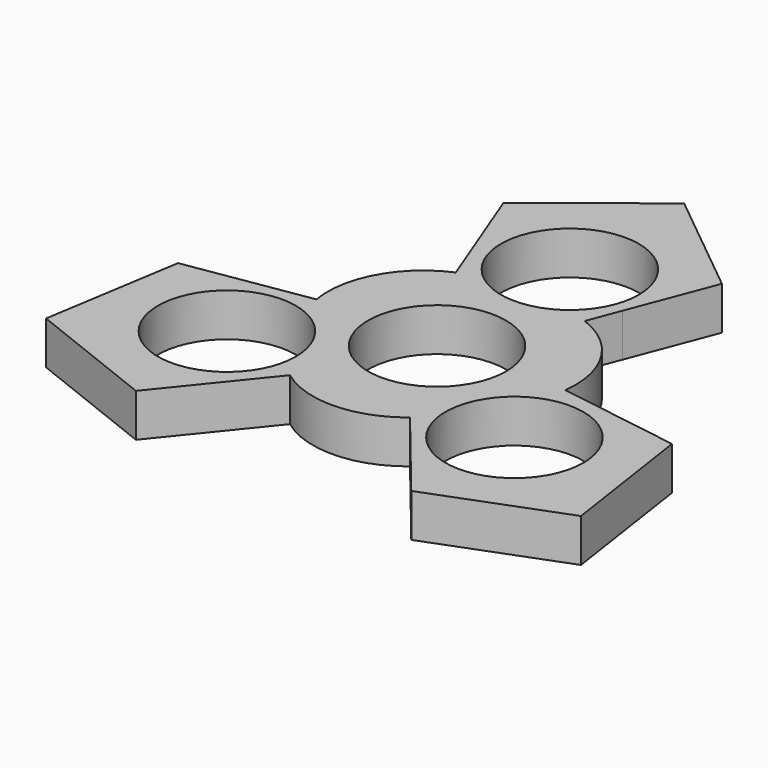
from build123d import *

# Parameters (mm, degrees)
F0_R     = 11.2
F2_DEPTH = 7


with BuildPart() as f2:
    # F0 (on Top) → F2 (new body)
    with BuildSketch(Plane.XY):
        with BuildLine():
            Line((-9.5509455629, -17.9307749998), (-4.9533112476, -12.2353875167))
            ThreePointArc((-4.9533112476, -12.2353875167), (0.1510560245, -13.1991356565), (5.2320302672, -12.1188225205))
            ThreePointArc((5.2320302672, -12.1188225205), (11.5063147988, -6.4687494736), (13.0728120384, 1.8280003851))
            ThreePointArc((13.0728120384, 1.8280003851), (11.3552587742, 6.7303861829), (7.8791930331, 10.590482385))
            ThreePointArc((7.8791930331, 10.590482385), (-0.1510560245, 13.1991356565), (-8.1195007908, 10.4073871317))
            ThreePointArc((-8.1195007908, 10.4073871317), (-11.5063147988, 6.4687494736), (-13.1112233003, 1.5283401355))
            Line((-13.1112233003, 1.5283401355), (-19.9408051075, 0.433259189))
            Line((-19.9408051075, 0.433259189), (-25.4419179951, -0.4488100325))
            Line((-25.4419179951, -0.4488100325), (-39.868786154, -2.7620685723))
            Line((-39.868786154, -2.7620685723), (-43.4420297675, -25.0812675804))
            Line((-43.4420297675, -25.0812675804), (-22.1210067772, -33.5021241745))
            Line((-22.1210067772, -33.5021241745), (-9.5509455629, -17.9307749998))
        make_face()
        with BuildLine():
            ThreePointArc((-10.1520747476, -13.4823266417), (-31.9151953568, -23.527871198), (-25.4419179951, -0.4488100325))
            ThreePointArc((-25.4419179951, -0.4488100325), (-14.7889541385, -3.4367820853), (-10.1520747476, -13.4823266417))
        make_face(mode=Mode.SUBTRACT)
        Circle(F0_R, mode=Mode.SUBTRACT)
        with BuildLine():
            ThreePointArc((-8.1195007908, 10.4073871317), (-0.1510560245, 13.1991356565), (7.8791930331, 10.590482385))
            Line((7.8791930331, 10.590482385), (10.3456160178, 17.0526142005))
            Line((10.3456160178, 17.0526142005), (12.3322780723, 22.2577522276))
            Line((12.3322780723, 22.2577522276), (17.5423715264, 35.9084159136))
            Line((17.5423715264, 35.9084159136), (0, 50.1625351608))
            Line((0, 50.1625351608), (-17.9531872272, 35.9084159136))
            Line((-17.9531872272, 35.9084159136), (-10.7530338779, 17.2367489876))
            Line((-10.7530338779, 17.2367489876), (-8.1195007908, 10.4073871317))
        make_face()
        with BuildLine():
            ThreePointArc((13.2, 26.9646532834), (12.9812570761, 24.5715455292), (12.3322780723, 22.2577522276))
            ThreePointArc((12.3322780723, 22.2577522276), (-12.9812570761, 29.3577610375), (13.2, 26.9646532834))
        make_face(mode=Mode.SUBTRACT)
        with BuildLine():
            ThreePointArc((13.0728120384, 1.8280003851), (11.5063147988, -6.4687494736), (5.2320302672, -12.1188225205))
            Line((5.2320302672, -12.1188225205), (9.5951890897, -17.4858733895))
            Line((9.5951890897, -17.4858733895), (13.1096400757, -21.8089425203))
            Line((13.1096400757, -21.8089425203), (22.3264146276, -33.1463473412))
            Line((22.3264146276, -33.1463473412), (43.4420297675, -25.0812675804))
            Line((43.4420297675, -25.0812675804), (40.0741940044, -2.4062917391))
            Line((40.0741940044, -2.4062917391), (20.3039794408, 0.6940260122))
            Line((20.3039794408, 0.6940260122), (13.0728120384, 1.8280003851))
        make_face()
        with BuildLine():
            ThreePointArc((36.5520747476, -13.4823266417), (27.7702113645, -25.920978853), (13.1096400757, -21.8089425203))
            ThreePointArc((13.1096400757, -21.8089425203), (18.9339381308, -1.0436744303), (36.5520747476, -13.4823266417))
        make_face(mode=Mode.SUBTRACT)
        with BuildLine():
            ThreePointArc((36.5520747476, -13.4823266417), (18.9339381308, -1.0436744303), (13.1096400757, -21.8089425203))
            ThreePointArc((13.1096400757, -21.8089425203), (27.7702113645, -25.920978853), (36.5520747476, -13.4823266417))
        make_face()
        with Locations((23.3520747476, -13.4823266417)):
            Circle(F0_R, mode=Mode.SUBTRACT)
        with BuildLine():
            ThreePointArc((-10.1520747476, -13.4823266417), (-14.7889541385, -3.4367820853), (-25.4419179951, -0.4488100325))
            ThreePointArc((-25.4419179951, -0.4488100325), (-31.9151953568, -23.527871198), (-10.1520747476, -13.4823266417))
        make_face()
        with Locations((-23.3520747476, -13.4823266417)):
            Circle(F0_R, mode=Mode.SUBTRACT)
        with BuildLine():
            ThreePointArc((13.2, 26.9646532834), (-12.9812570761, 29.3577610375), (12.3322780723, 22.2577522276))
            ThreePointArc((12.3322780723, 22.2577522276), (12.9812570761, 24.5715455292), (13.2, 26.9646532834))
        make_face()
        with Locations((0, 26.9646532834)):
            Circle(F0_R, mode=Mode.SUBTRACT)
        with BuildLine():
            ThreePointArc((7.8791930331, 10.590482385), (11.3552587742, 6.7303861829), (13.0728120384, 1.8280003851))
            Line((13.0728120384, 1.8280003851), (20.3039794408, 0.6940260122))
            ThreePointArc((20.3039794408, 0.6940260122), (18.1522441191, 10.59454069), (10.3456160178, 17.0526142005))
            Line((10.3456160178, 17.0526142005), (7.8791930331, 10.590482385))
        make_face()
        with BuildLine():
            ThreePointArc((5.2320302672, -12.1188225205), (0.1510560245, -13.1991356565), (-4.9533112476, -12.2353875167))
            Line((-4.9533112476, -12.2353875167), (-9.5509455629, -17.9307749998))
            ThreePointArc((-9.5509455629, -17.9307749998), (0.0990193194, -21.0175748879), (9.5951890897, -17.4858733895))
            Line((9.5951890897, -17.4858733895), (5.2320302672, -12.1188225205))
        make_face()
        with BuildLine():
            ThreePointArc((-13.1112233003, 1.5283401355), (-11.5063147988, 6.4687494736), (-8.1195007908, 10.4073871317))
            Line((-8.1195007908, 10.4073871317), (-10.7530338779, 17.2367489876))
            ThreePointArc((-10.7530338779, 17.2367489876), (-18.2512634385, 10.4230341979), (-19.9408051075, 0.433259189))
            Line((-19.9408051075, 0.433259189), (-13.1112233003, 1.5283401355))
        make_face()
    extrude(amount=F2_DEPTH)


solid = f2.part
